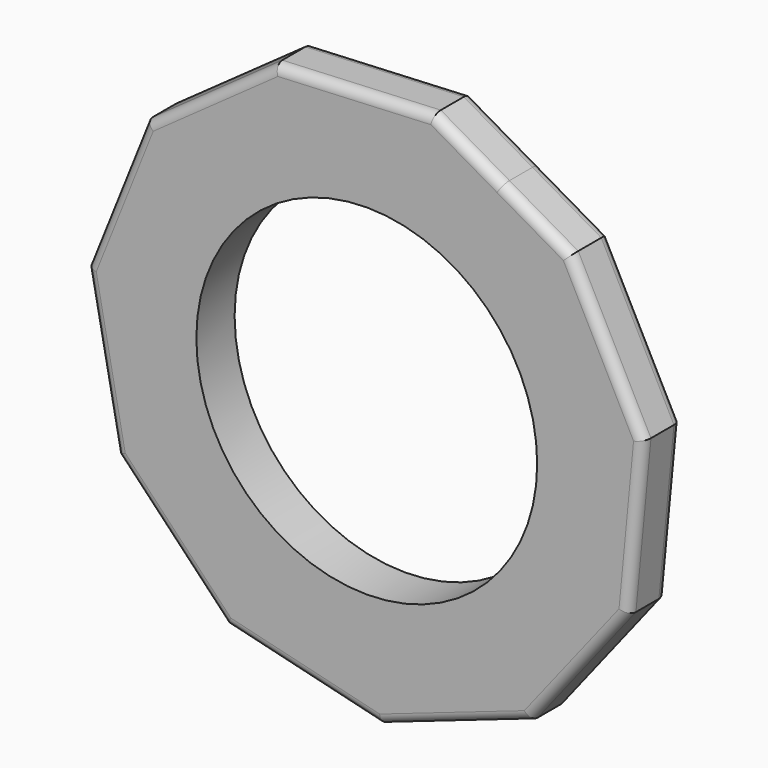
from build123d import *

# Parameters (mm, degrees)
F1_DEPTH = 25.4
F2_R     = 90.4905202305
F3_DEPTH = 25.4
F4_R     = 5.08
F5_R     = 5.08


with BuildPart() as f1:
    # F0 (on Front) → F1 (new body)
    with BuildSketch(Plane.XZ):
        Polygon((108.2512310565, 103.2173403296), (71.7572271824, 124.2871632902), (35.2632233082, 145.3569862507), (-48.9206086824, 141.3468160806), (-117.5724930729, 92.4600305138), (-148.8959416402, 14.2178385502), (-132.9459807853, -68.5384166946), (-74.7866103824, -129.5342089082), (7.1169803999, -149.4038050384), (86.7609801915, -121.8387487058), (138.858981796, -55.5907505305), (146.870237811, 28.3069181527), align=None)
        Polygon((-16.0764054761, 73.5763918309), (71.7572271824, 124.2871632902), (71.7572271824, 25.0510078709), (72.8934520967, 23.3153364586), (71.7572271824, 0), (71.7572271824, -124.2871632902), (-143.5144543648, 0), (-52.9619502577, 52.280512622), (-41.3737298926, 66.6985122387), align=None, mode=Mode.SUBTRACT)
        Polygon((71.7572271824, -124.2871632902), (71.7572271824, 0), (70.6210022681, -23.3153364586), (41.3737298926, -59.7046308119), (-3.6769010605, -71.953072985), (-47.3230807818, -55.3821743769), (-72.8934520967, -16.3214550319), (-70.6210022681, 30.3092178854), (-52.9619502577, 52.280512622), (-143.5144543648, 0), align=None)
        Polygon((71.7572271824, 25.0510078709), (71.7572271824, 124.2871632902), (-16.0764054761, 73.5763918309), (3.6769010605, 78.9469544117), (47.3230807818, 62.3760558037), align=None)
        Polygon((-52.9619502577, 52.280512622), (-16.0764054761, 73.5763918309), (-41.3737298926, 66.6985122387), align=None)
    extrude(amount=F1_DEPTH)

    # F2 (on face) → F3 (cut)
    with BuildSketch(Plane.XZ.offset(25.4)):
        Circle(F2_R)
        Polygon((72.8934520967, 23.3153364586), (70.6210022681, -23.3153364586), (41.3737298926, -59.7046308119), (-3.6769010605, -71.953072985), (-47.3230807818, -55.3821743769), (-72.8934520967, -16.3214550319), (-70.6210022681, 30.3092178854), (-52.9619502577, 52.280512622), (-16.0764054761, 73.5763918309), (3.6769010605, 78.9469544117), (47.3230807818, 62.3760558037), align=None, mode=Mode.SUBTRACT)
    extrude(amount=-F3_DEPTH, mode=Mode.SUBTRACT)

    # F4
    f4_edges = [f1.edges().sort_by_distance(p)[0] for p in [
        (-133.234217, -25.4, 53.338935),
        (-140.920961, -25.4, -27.160289),
        (-103.866296, -25.4, -99.036313),
        (-33.834815, -25.4, -139.469007),
        (46.93898, -25.4, -135.621277),
        (112.809981, -25.4, -88.71475),
        (142.86461, -25.4, -13.641916),
        (127.560734, -25.4, 65.762129),
        (71.757227, -25.4, 124.287163),
        (-6.828693, -25.4, 143.351901),
        (-83.246551, -25.4, 116.903423),
    ]]
    fillet(f4_edges, radius=F4_R)

    # F5
    f5_edges = [f1.edges().sort_by_distance(p)[0] for p in [
        (127.560734, 0, 65.762129),
        (142.86461, 0, -13.641916),
        (112.809981, 0, -88.71475),
        (46.93898, 0, -135.621277),
        (-33.834815, 0, -139.469007),
        (-103.866296, 0, -99.036313),
        (-140.920961, 0, -27.160289),
        (-6.828693, 0, 143.351901),
        (71.757227, 0, 124.287163),
        (-83.246551, 0, 116.903423),
        (-133.234217, 0, 53.338935),
    ]]
    fillet(f5_edges, radius=F5_R)


solid = f1.part
